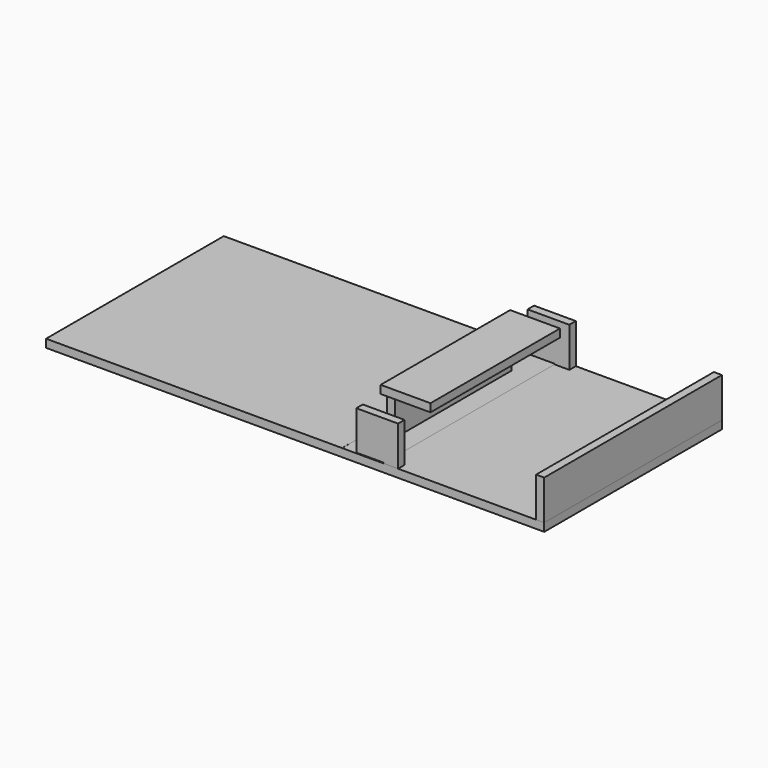
from build123d import *

# Parameters (mm, degrees)
F0_W      = 370
F0_H      = 165
F1_DEPTH  = 6
F2_W      = 6
F2_H      = 165
F3_DEPTH  = 29.5
F4_W      = 31
F4_H      = 6
F5_DEPTH  = 29.5
F6_W      = 30.6351519525
F6_H      = 0.5
F7_DEPTH  = 150
F9_W      = 107.9691536725
F9_H      = 29.012885876
F10_DEPTH = 6
F12_W     = 36.9944125414
F12_H     = 120.2112324536
F13_DEPTH = 6


with BuildPart() as f1:
    # F0 (on Top) → F1 (new body)
    with BuildSketch(Plane.XY):
        Rectangle(F0_W, F0_H)
    extrude(amount=F1_DEPTH)


with BuildPart() as f3:
    # F2 (on face) → F3 (new body)
    with BuildSketch(Plane.XY.offset(6)):
        with Locations((182, 0)):
            Rectangle(F2_W, F2_H)
    extrude(amount=F3_DEPTH)


with BuildPart() as f5:
    # F4 (on face) → F5 (new body, through all)
    with BuildSketch(Plane.XY.offset(6)):
        with Locations((60.9634758234, -79.5)):
            Rectangle(F4_W, F4_H)
    extrude(amount=F5_DEPTH)


with BuildPart() as f5b:
    # F4 (on face) → F5, piece 2 (new body, through all)
    with BuildSketch(Plane.XY.offset(6)):
        with Locations((60.9634758234, 79.5)):
            Rectangle(F4_W, F4_H)
    extrude(amount=F5_DEPTH)


with BuildPart() as f7_tool:
    # F6 (on Front) → F7 (new body, symmetric)
    with BuildSketch(Plane.XZ):
        with Locations((50.1458998471, 6.2288549207)):
            Rectangle(F6_W, F6_H)
    extrude(amount=F7_DEPTH, both=True)


with BuildPart() as f1_1:
    add(f1.part)

    # F7: cut by f7_tool
    add(f7_tool.part, mode=Mode.SUBTRACT)


with BuildPart() as f5_1:
    add(f5.part)

    # F7: cut by f7_tool
    add(f7_tool.part, mode=Mode.SUBTRACT)


with BuildPart() as f5b_1:
    add(f5b.part)

    # F7: cut by f7_tool
    add(f7_tool.part, mode=Mode.SUBTRACT)


with BuildPart() as f10:
    # F9 (on plane+point) → F10 (new body)
    with BuildSketch(Plane.YZ.offset(45.4634758234)):
        with Locations((0.0067185611, 20.9854966961)):
            Rectangle(F9_W, F9_H)
    extrude(amount=F10_DEPTH)


with BuildPart() as f13:
    # F12 (on offset) → F13 (new body)
    with BuildSketch(Plane.XY.offset(35.7)):
        with Locations((64.0589296818, 0.0530425459)):
            Rectangle(F12_W, F12_H)
    extrude(amount=F13_DEPTH)


solid = Compound([f3.part, f1_1.part, f5_1.part, f5b_1.part, f10.part, f13.part])
